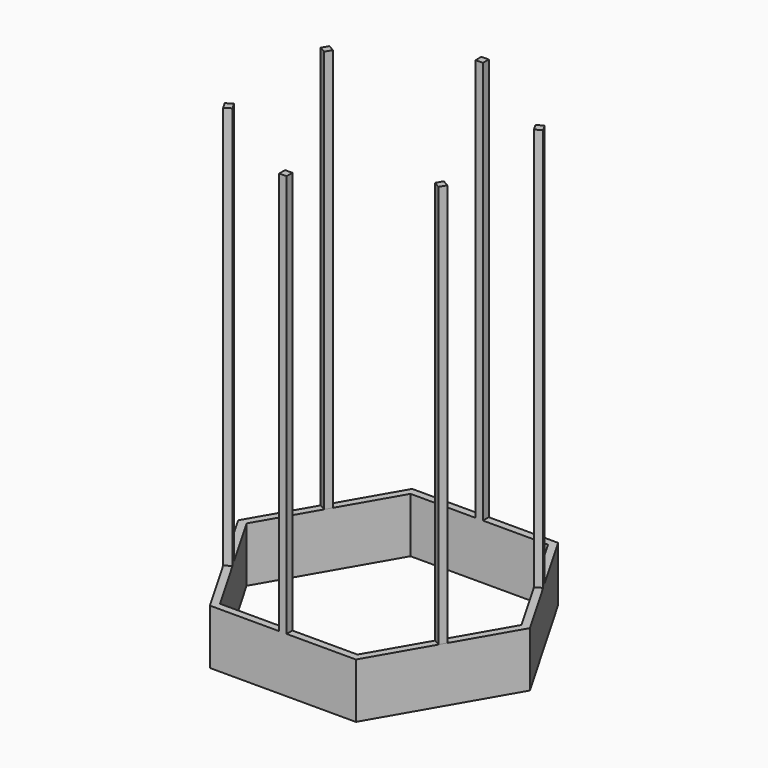
from build123d import *

# Parameters (mm, degrees)
F1_DEPTH = 15
F2_W     = 1
F2_H     = 2
F3_DEPTH = 110
F4_W     = 2
F4_H     = 2
F5_DEPTH = 2


with BuildPart() as f1:
    # F0 (on Top) → F1 (new body)
    with BuildSketch(Plane.XY):
        Polygon((-19.918584, -34.5), (19.918584, -34.5), (39.837169, 0), (19.918584, 34.5), (-19.918584, 34.5), (-39.837169, 0), align=None)
        Polygon((37.527767, 0), (18.763884, -32.5), (-18.763884, -32.5), (-37.527767, 0), (-18.763884, 32.5), (18.763884, 32.5), align=None, mode=Mode.SUBTRACT)
    extrude(amount=F1_DEPTH)

    # F2 (on face) → F3 (join)
    with BuildSketch(Plane.XY.offset(15)):
        Polygon((-28.645826, 15.383975), (-28.145826, 16.25), (-29.877876, 17.25), (-30.377876, 16.383975), align=None)
        Polygon((-29.877876, 17.25), (-28.145826, 16.25), (-27.645826, 17.116025), (-29.377876, 18.116025), align=None)
        with Locations((-0.5, 33.5)):
            Rectangle(F2_W, F2_H)
        with Locations((0.5, 33.5)):
            Rectangle(F2_W, F2_H)
        Polygon((27.645826, 17.116025), (28.145826, 16.25), (29.877876, 17.25), (29.377876, 18.116025), align=None)
        Polygon((29.877876, 17.25), (28.145826, 16.25), (28.723176, 15.25), (30.455227, 16.25), align=None)
        Polygon((28.145826, -16.25), (29.877876, -17.25), (30.377876, -16.383975), (28.645826, -15.383975), align=None)
        Polygon((27.645826, -17.116025), (29.377876, -18.116025), (29.877876, -17.25), (28.145826, -16.25), align=None)
        with Locations((0.5, -33.5)):
            Rectangle(F2_W, F2_H)
        with Locations((-0.5, -33.5)):
            Rectangle(F2_W, F2_H)
        Polygon((-29.877876, -17.25), (-29.300526, -18.25), (-27.568475, -17.25), (-28.145826, -16.25), align=None)
        Polygon((-30.377876, -16.383975), (-29.877876, -17.25), (-28.145826, -16.25), (-28.645826, -15.383975), align=None)
    extrude(amount=F3_DEPTH)

    # F4 (on face) → F5 (join)
    with BuildSketch(Plane(origin=(0, 34.5, 0), x_dir=(-1, 0, 0), z_dir=(0, 1, 0))):
        with Locations((0, 36)):
            Rectangle(F4_W, F4_H)
    extrude(amount=-F5_DEPTH)


solid = f1.part
